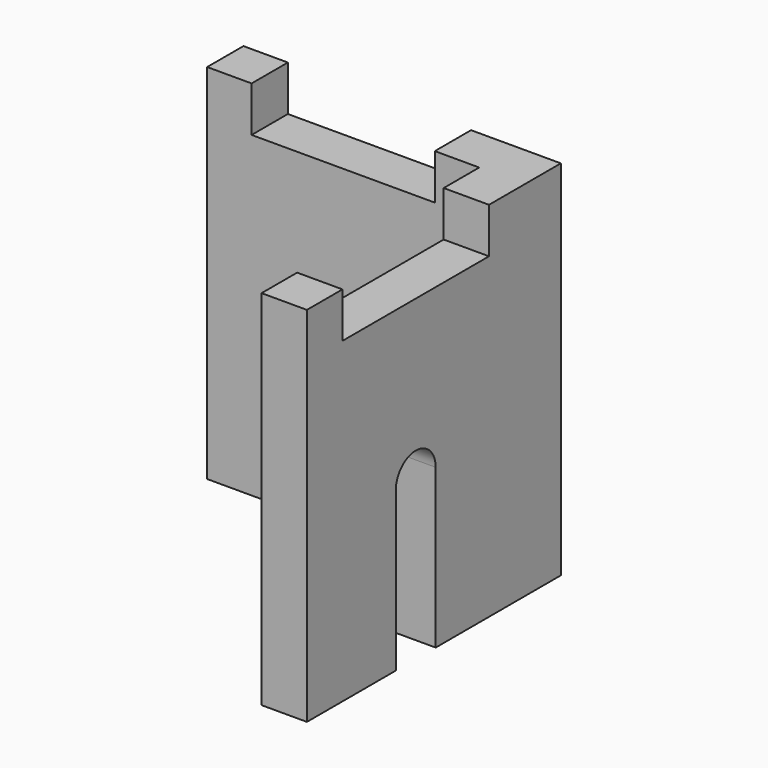
from build123d import *

# Parameters (mm, degrees)
PAD_DEPTH       = 40
SKETCH001_W     = 20.2
SKETCH001_H     = 5
SKETCH001_W_2   = 5
SKETCH001_H_2   = 20.2
POCKET_DEPTH    = 5
SKETCH002_R     = 2.75
POCKET001_DEPTH = 5.001
POCKET002_DEPTH = 5.001


with BuildPart() as part:
    # Sketch → Pad (new body)
    with BuildSketch(Plane.XY):
        Polygon((0, 0), (-35, 0), (-35, -5), (-5, -5), (-5, -35), (0, -35), align=None)
    extrude(amount=PAD_DEPTH)

    # Sketch001 (on Face8 of Pad) → Pocket (cut)
    with BuildSketch(Plane.XY.offset(40)):
        with Locations((-20, -2.5)):
            Rectangle(SKETCH001_W, SKETCH001_H)
        with Locations((-2.5, -20)):
            Rectangle(SKETCH001_W_2, SKETCH001_H_2)
    extrude(amount=-POCKET_DEPTH, mode=Mode.SUBTRACT)

    # Sketch002 (on Face10 of Pocket) → Pocket001 (cut, through all)
    with BuildSketch(Plane.XZ.offset(5)):
        with Locations((-20, 17.5)):
            Circle(SKETCH002_R)
    extrude(amount=-POCKET001_DEPTH, mode=Mode.SUBTRACT)

    # Sketch003 (on Face12 of Pocket001) → Pocket002 (cut, through all)
    with BuildSketch(Plane(origin=(-5, 0, 0), x_dir=(0, -1, 0), z_dir=(-1, 0, 0))):
        with BuildLine():
            Line((17.25, 0), (22.75, 0))
            Line((22.75, 0), (22.75, 17.5))
            ThreePointArc((22.75, 17.5), (20, 20.25), (17.25, 17.5))
            Line((17.25, 17.5), (17.25, 0))
        make_face()
    extrude(amount=-POCKET002_DEPTH, mode=Mode.SUBTRACT)


solid = part.part
